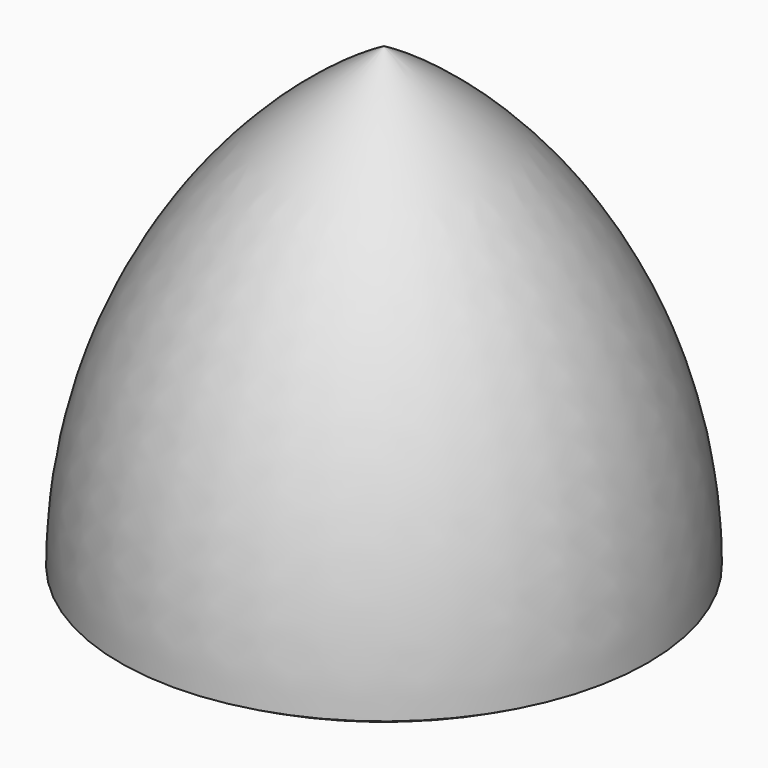
from build123d import *


with BuildPart() as f1:
    # F0 (on Front) → F1 (revolve)
    with BuildSketch(Plane.XZ):
        with BuildLine():
            Line((0, 21.997045), (12.7, 0))
            ThreePointArc((12.7, 0), (9.297045, 12.7), (0, 21.997045))
        make_face()
        with BuildLine():
            Line((12.7, 0), (0, 0))
            Line((0, 0), (0, -3.402955))
            ThreePointArc((0, -3.402955), (6.574004, -2.537471), (12.7, 0))
        make_face()
        Polygon((0, 21.997045), (0, 0), (12.7, 0), align=None)
    revolve(axis=Axis((0, 0, 9.297045), (0, 0, 1)))


solid = f1.part
